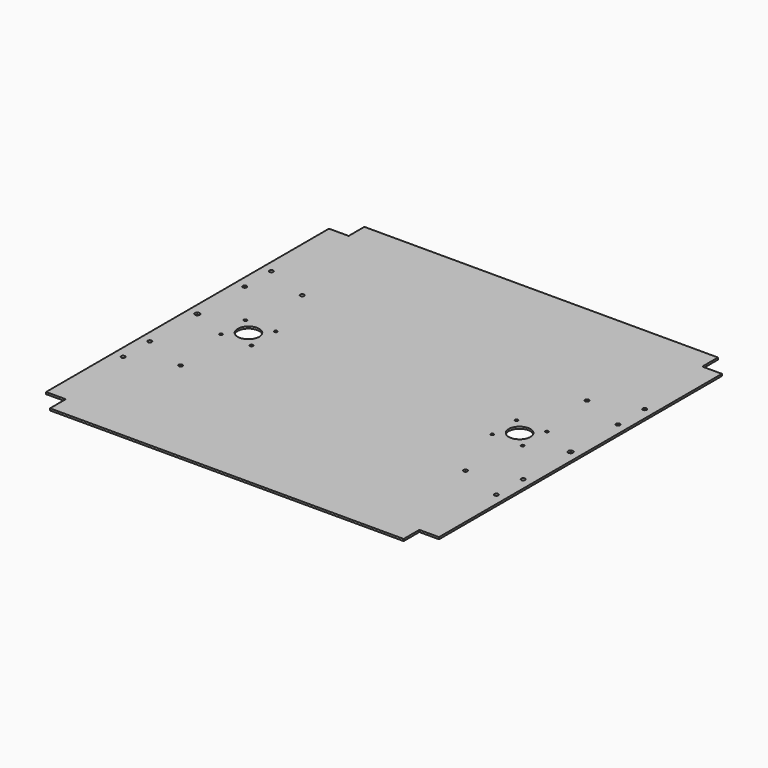
from build123d import *

# Parameters (mm, degrees)
F0_R     = 2
F0_R_2   = 1.5
F0_R_3   = 2.5
F0_R_4   = 11
F1_DEPTH = 2


with BuildPart() as f1:
    # F0 (on Top) → F1 (new body)
    with BuildSketch(Plane.XY):
        Polygon((200, -180), (200, 180), (180, 180), (180, 200), (-180, 200), (-180, 180), (-200, 180), (-200, -180), (-180, -180), (-180, -200), (180, -200), (180, -180), align=None)
        with Locations((-190.000003, -94.5)):
            Circle(F0_R, mode=Mode.SUBTRACT)
        with Locations((-190.000003, -60.5)):
            Circle(F0_R, mode=Mode.SUBTRACT)
        with Locations((-145.000003, -77.5)):
            Circle(F0_R, mode=Mode.SUBTRACT)
        with Locations((-153.5, -15.5)):
            Circle(F0_R_2, mode=Mode.SUBTRACT)
        with Locations((-122.5, -15.5)):
            Circle(F0_R_2, mode=Mode.SUBTRACT)
        with Locations((145.000003, -77.5)):
            Circle(F0_R, mode=Mode.SUBTRACT)
        with Locations((190.000003, -94.5)):
            Circle(F0_R, mode=Mode.SUBTRACT)
        with Locations((190.000003, -60.5)):
            Circle(F0_R, mode=Mode.SUBTRACT)
        with Locations((122.5, -15.5)):
            Circle(F0_R_2, mode=Mode.SUBTRACT)
        with Locations((153.5, -15.5)):
            Circle(F0_R_2, mode=Mode.SUBTRACT)
        with Locations((-190, 0)):
            Circle(F0_R_3, mode=Mode.SUBTRACT)
        with Locations((-153.5, 15.5)):
            Circle(F0_R_2, mode=Mode.SUBTRACT)
        with Locations((-138, 0)):
            Circle(F0_R_4, mode=Mode.SUBTRACT)
        with Locations((-122.5, 15.5)):
            Circle(F0_R_2, mode=Mode.SUBTRACT)
        with Locations((-190, 60.199966)):
            Circle(F0_R, mode=Mode.SUBTRACT)
        with Locations((-190, 94.199966)):
            Circle(F0_R, mode=Mode.SUBTRACT)
        with Locations((-145, 77.199966)):
            Circle(F0_R, mode=Mode.SUBTRACT)
        with Locations((122.5, 15.5)):
            Circle(F0_R_2, mode=Mode.SUBTRACT)
        with Locations((138, 0)):
            Circle(F0_R_4, mode=Mode.SUBTRACT)
        with Locations((153.5, 15.5)):
            Circle(F0_R_2, mode=Mode.SUBTRACT)
        with Locations((190, 0)):
            Circle(F0_R_3, mode=Mode.SUBTRACT)
        with Locations((145, 77.199966)):
            Circle(F0_R, mode=Mode.SUBTRACT)
        with Locations((190, 60.199966)):
            Circle(F0_R, mode=Mode.SUBTRACT)
        with Locations((190, 94.199966)):
            Circle(F0_R, mode=Mode.SUBTRACT)
    extrude(amount=-F1_DEPTH)


solid = f1.part
